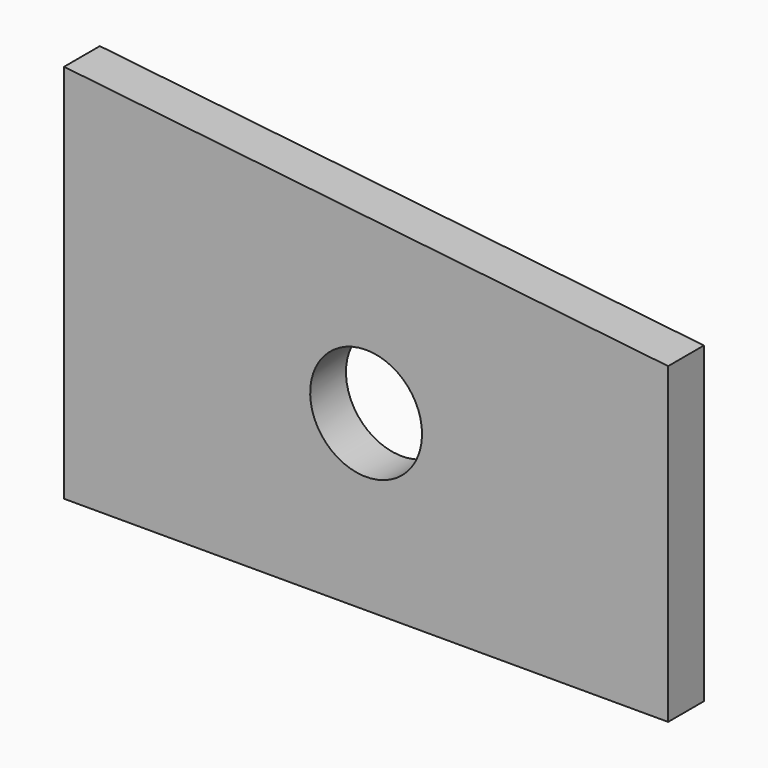
from build123d import *

# Parameters (mm, degrees)
F1_DEPTH = 10


with BuildPart() as f1:
    # F0 (on Front) → F1 (new body)
    with BuildSketch(Plane.XZ):
        with BuildLine():
            ThreePointArc((-55, 38.75), (-58.661165, 47.588835), (-67.5, 51.25))
            ThreePointArc((-67.5, 51.25), (-76.338835, 29.911165), (-55, 38.75))
        make_face()
        Polygon((-135, 0), (0, 0), (0, 70), (-67.5, 77.5), (-135, 85), align=None)
        with BuildLine():
            ThreePointArc((-55, 38.75), (-76.338835, 29.911165), (-67.5, 51.25))
            ThreePointArc((-67.5, 51.25), (-58.661165, 47.588835), (-55, 38.75))
        make_face(mode=Mode.SUBTRACT)
    extrude(amount=F1_DEPTH)


solid = f1.part
